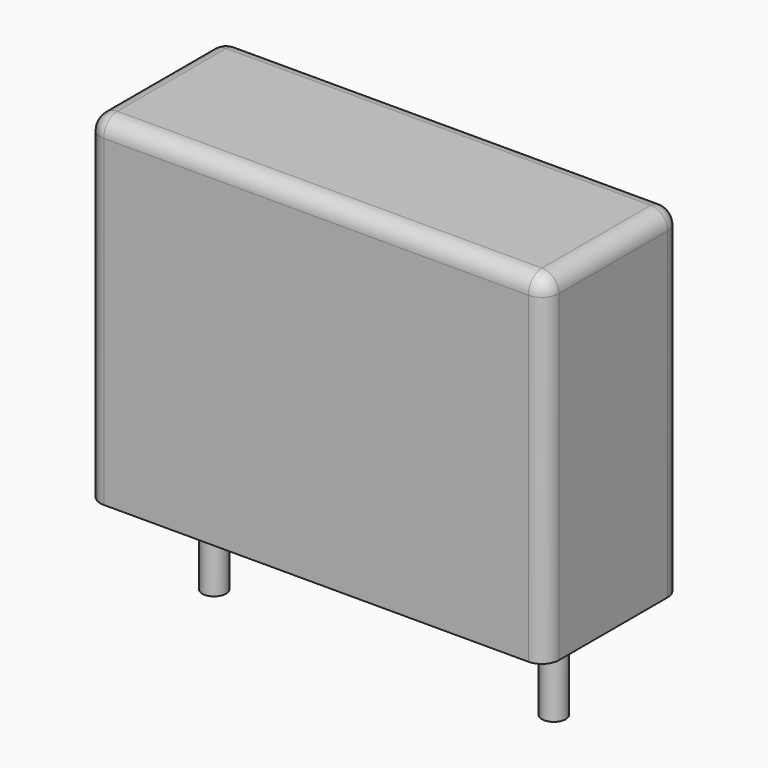
from build123d import *

# Parameters (mm, degrees)
SKETCH_W     = 13.5
SKETCH_H     = 5
PAD_DEPTH    = 10
FILLET_R     = 0.5
SKETCH001_R  = 0.35
PAD001_DEPTH = 3.2


with BuildPart() as fillet_body:
    # Sketch → Pad (new body)
    with BuildSketch(Plane.XY.offset(0.1)):
        with Locations((5, 0)):
            Rectangle(SKETCH_W, SKETCH_H)
    extrude(amount=PAD_DEPTH)

    # Fillet
    fillet_edges = [fillet_body.edges().sort_by_distance(p)[0] for p in [
        (-1.75, 0, 10.1),
        (-1.75, -2.5, 5.1),
        (5, -2.5, 10.1),
        (11.75, -2.5, 5.1),
        (11.75, 0, 10.1),
        (11.75, 2.5, 5.1),
        (5, 2.5, 10.1),
        (-1.75, 2.5, 5.1),
    ]]
    fillet(fillet_edges, radius=FILLET_R)


with BuildPart() as pad001:
    # Sketch001 → Pad001 (new body)
    with BuildSketch(Plane.XY.offset(0.5)):
        Circle(SKETCH001_R)
        with Locations((10, 0)):
            Circle(SKETCH001_R)
    extrude(amount=-PAD001_DEPTH)


solid = Compound([fillet_body.part, pad001.part])
